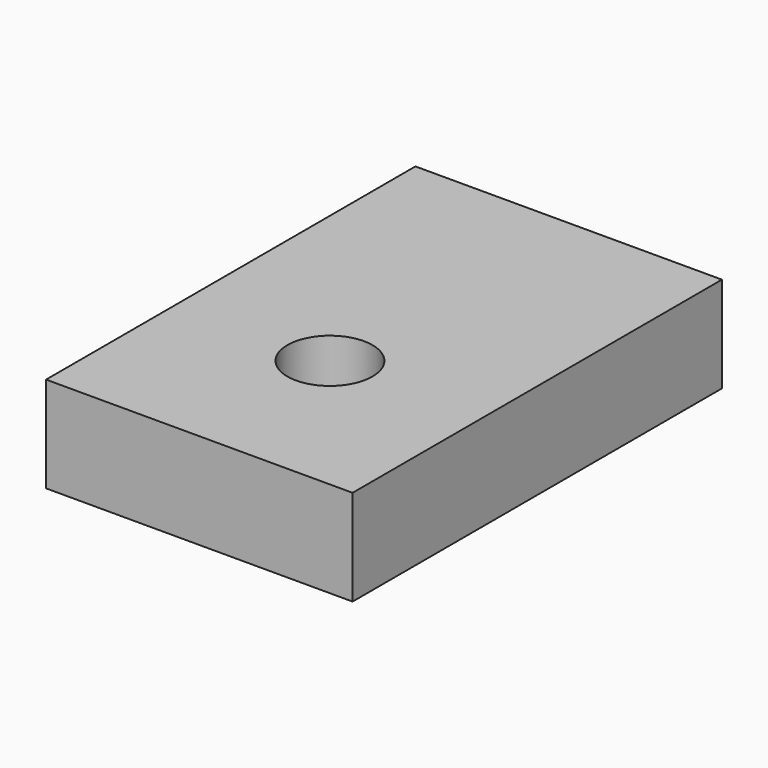
from build123d import *

# Parameters (mm, degrees)
CYLINDER1615_R     = 4
CYLINDER1615_DEPTH = 100
BOX641_W           = 28.8
BOX641_H           = 43.38
BOX641_DEPTH       = 9


with BuildPart() as obj1:
    # Cylinder1615 → Cylinder1615 (new body)
    with BuildSketch(Plane.XY):
        Circle(CYLINDER1615_R)
    extrude(amount=CYLINDER1615_DEPTH)


with BuildPart() as cut307:
    # Box641 → Box641 (new body)
    with BuildSketch(Plane(origin=(-14.4, -15.34, 34), x_dir=(1, 0, 0), z_dir=(0, 0, 1))):
        with Locations((14.4, 21.69)):
            Rectangle(BOX641_W, BOX641_H)
    extrude(amount=BOX641_DEPTH)

    # Cut307: cut obj1
    add(obj1.part, mode=Mode.SUBTRACT)


with BuildPart() as cut307_1:
    # Cut307 placement: moved
    add(cut307.part.moved(Location((0, 90, -86))))


solid = cut307_1.part
